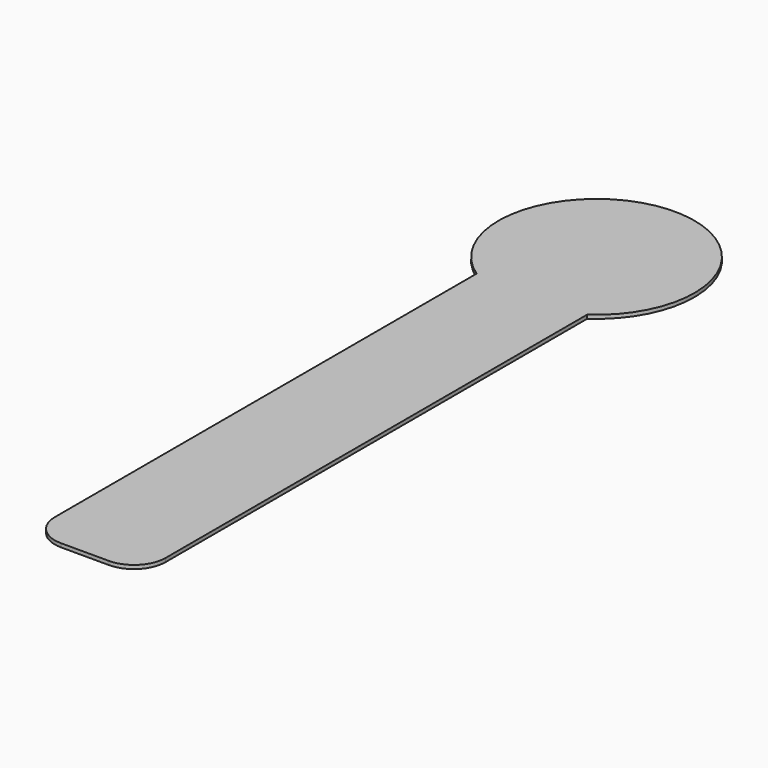
from build123d import *

# Parameters (mm, degrees)
PAD_DEPTH = 1


with BuildPart() as part:
    # Sketch → Pad (new body)
    with BuildSketch(Plane.XY):
        with BuildLine():
            Line((8.541405, 0), (21.458595, 0))
            ThreePointArc((21.458595, 0), (27.49828, 2.50172), (30, 8.541405))
            Line((30, 8.541405), (30, 151.390869))
            ThreePointArc((30, 151.390869), (15, 199.847546), (0, 151.390869))
            Line((0, 151.390869), (0, 8.541405))
            ThreePointArc((0, 8.541405), (2.50172, 2.50172), (8.541405, 0))
        make_face()
    extrude(amount=PAD_DEPTH)


solid = part.part
